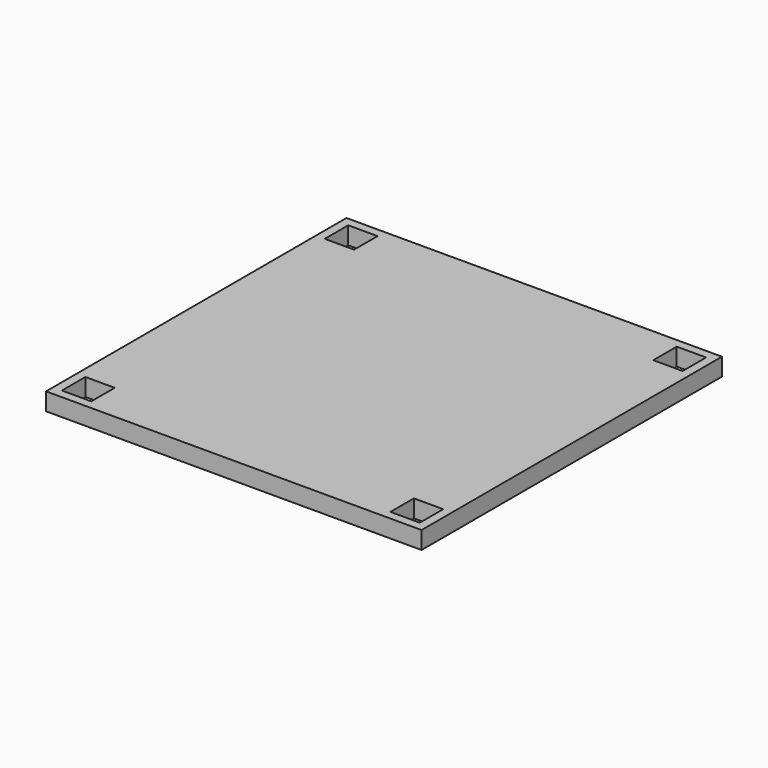
from build123d import *

# Parameters (mm, degrees)
F0_W     = 101.6
F0_H     = 101.6
F0_W_2   = 7.9375
F0_H_2   = 7.9375
F1_DEPTH = 4.7625


with BuildPart() as f1:
    # F0 (on Top) → F1 (new body)
    with BuildSketch(Plane.XY):
        with Locations((50.8, 50.8)):
            Rectangle(F0_W, F0_H)
        with Locations((6.35, 6.35)):
            Rectangle(F0_W_2, F0_H_2, mode=Mode.SUBTRACT)
        with Locations((95.25, 6.35)):
            Rectangle(F0_W_2, F0_H_2, mode=Mode.SUBTRACT)
        with Locations((6.35, 95.25)):
            Rectangle(F0_W_2, F0_H_2, mode=Mode.SUBTRACT)
        with Locations((95.25, 95.25)):
            Rectangle(F0_W_2, F0_H_2, mode=Mode.SUBTRACT)
    extrude(amount=F1_DEPTH)


solid = f1.part
